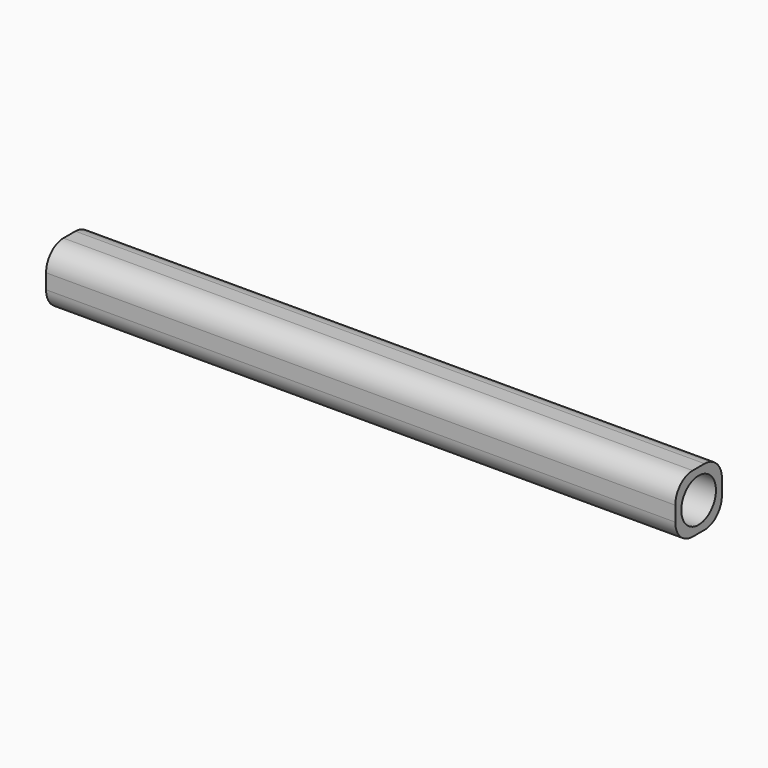
from build123d import *

# Parameters (mm, degrees)
F1_DEPTH      = 3.414395
F1_DEPTH_BACK = 3.414395
F3_D          = 5.08
F3_DEPTH      = 38.1
F3_TIP        = 1.5261859723
F4_R          = 2.54


with BuildPart() as f1:
    # F0 (on Top) → F1 (new body, two sides)
    with BuildSketch(Plane.XY) as f1_sk:
        Polygon((27.5532683375, 33.9854207361), (8.2568451762, 33.9854207361), (8.2568451762, 27.1566307361), (62.6822561026, 27.1566307361), (81.9869935513, 27.1566307361), (81.9869935513, 33.9854207361), (78.0837014318, 33.9854207361), (71.3711140723, 33.9854207361), (58.8463247403, 33.9854207361), (56.5806804269, 33.9854207361), (53.2887220937, 33.9854207361), (51.0230777803, 33.9854207361), (45.4654522794, 33.9854207361), (43.199807966, 33.9854207361), (37.6421824652, 33.9854207361), (35.3765381518, 33.9854207361), (29.8189126509, 33.9854207361), align=None)
    extrude(amount=F1_DEPTH)
    extrude(f1_sk.sketch, amount=-F1_DEPTH_BACK)

    # F3
    with Locations(Plane.YZ.offset(81.9869935513)):
        with Locations((30.5710257361, 0)):
            Hole(F3_D / 2, depth=F3_DEPTH)
            with Locations((0, 0, -(F3_DEPTH + F3_TIP / 2))):  # 118° drill point
                Cone(0, F3_D / 2, F3_TIP, mode=Mode.SUBTRACT)

    # F4
    f4_edges = [f1.edges().sort_by_distance(p)[0] for p in [
        (45.121919, 33.985421, 3.414395),
        (45.121919, 27.156631, 3.414395),
        (45.121919, 33.985421, -3.414395),
        (45.121919, 27.156631, -3.414395),
    ]]
    fillet(f4_edges, radius=F4_R)


solid = f1.part
